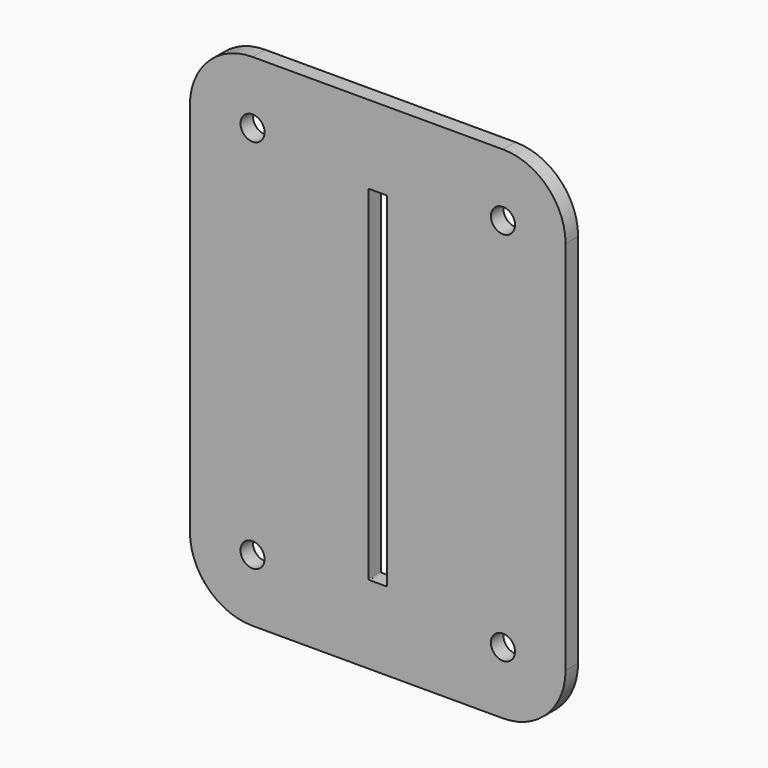
from build123d import *

# Parameters (mm, degrees)
F0_R     = 4.8895
F1_DEPTH = 6.35


with BuildPart() as f1:
    # F0 (on Front) → F1 (new body)
    with BuildSketch(Plane.XZ):
        with BuildLine():
            ThreePointArc((-76.2, -76.2), (-68.760512, -94.160512), (-50.8, -101.6))
            Line((-50.8, -101.6), (50.8, -101.6))
            ThreePointArc((50.8, -101.6), (68.760512, -94.160512), (76.2, -76.2))
            Line((76.2, -76.2), (76.2, 76.2))
            ThreePointArc((76.2, 76.2), (68.760512, 94.160512), (50.8, 101.6))
            Line((50.8, 101.6), (-50.8, 101.6))
            ThreePointArc((-50.8, 101.6), (-68.760512, 94.160512), (-76.2, 76.2))
            Line((-76.2, 76.2), (-76.2, -76.2))
        make_face()
        with Locations((-50.8, -76.2)):
            Circle(F0_R, mode=Mode.SUBTRACT)
        with BuildLine():
            Line((3.3655, -69.85), (-3.3655, -69.85))
            ThreePointArc((-3.3655, -69.85), (-3.590006, -69.757006), (-3.683, -69.5325))
            Line((-3.683, -69.5325), (-3.683, 69.5325))
            ThreePointArc((-3.683, 69.5325), (-3.590006, 69.757006), (-3.3655, 69.85))
            Line((-3.3655, 69.85), (3.3655, 69.85))
            ThreePointArc((3.3655, 69.85), (3.590006, 69.757006), (3.683, 69.5325))
            Line((3.683, 69.5325), (3.683, -69.5325))
            ThreePointArc((3.683, -69.5325), (3.590006, -69.757006), (3.3655, -69.85))
        make_face(mode=Mode.SUBTRACT)
        with Locations((50.8, -76.2)):
            Circle(F0_R, mode=Mode.SUBTRACT)
        with Locations((-50.8, 76.2)):
            Circle(F0_R, mode=Mode.SUBTRACT)
        with Locations((50.8, 76.2)):
            Circle(F0_R, mode=Mode.SUBTRACT)
    extrude(amount=F1_DEPTH)


solid = f1.part
